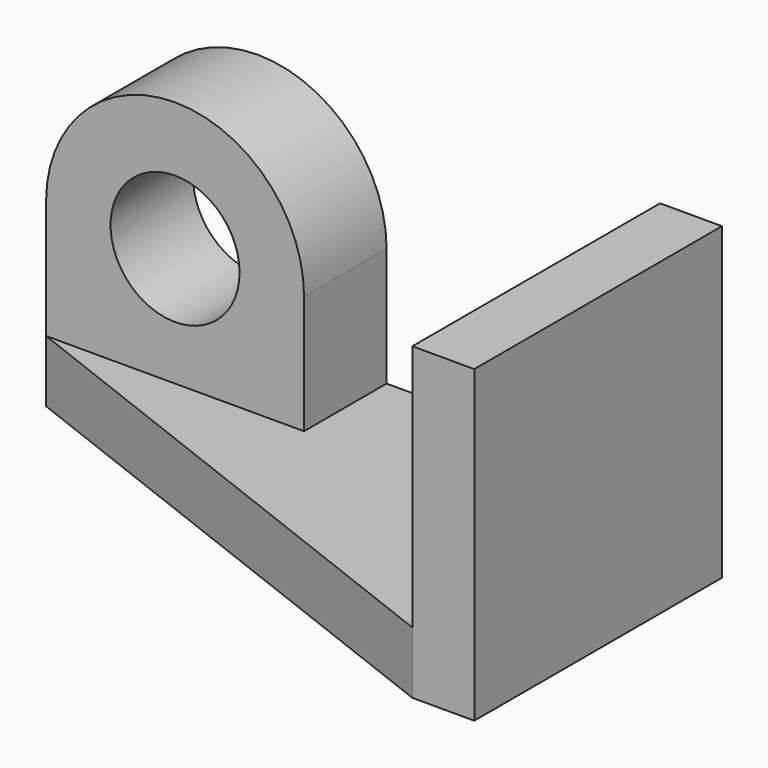
from build123d import *

# Parameters (mm, degrees)
F0_W      = 2921
F0_H      = 1524
F1_DEPTH  = 1524
F2_W      = 2616.2
F2_H      = 1219.2
F3_DEPTH  = 1016
F4_W      = 1346.2
F4_H      = 508
F5_DEPTH  = 1219.2
F7_DEPTH  = 1270
F8_DEPTH  = 1219.2
F9_W      = 1270
F9_H      = 508
F10_DEPTH = 584.2
F12_DEPTH = 508
F13_R     = 317.5
F14_DEPTH = 1270


with BuildPart() as f1:
    # F0 (on Front) → F1 (new body)
    with BuildSketch(Plane.XZ):
        with Locations((-1460.5, 762)):
            Rectangle(F0_W, F0_H)
    extrude(amount=F1_DEPTH)

    # F2 (on face) → F3 (cut)
    with BuildSketch(Plane.XZ.offset(1524)):
        with Locations((-1612.9, 914.4)):
            Rectangle(F2_W, F2_H)
    extrude(amount=-F3_DEPTH, mode=Mode.SUBTRACT)

    # F4 (on face) → F5 (cut)
    with BuildSketch(Plane.XY.offset(1524)):
        with Locations((-977.9, -254)):
            Rectangle(F4_W, F4_H)
    extrude(amount=-F5_DEPTH, mode=Mode.SUBTRACT)

    # F6 (on face) → F7 (cut)
    with BuildSketch(Plane.XY.offset(304.8)):
        Polygon((-304.8, -1524), (-2921, -508), (-2921, -1524), align=None)
    extrude(amount=-F7_DEPTH, mode=Mode.SUBTRACT)

    # F8 (cut): a face of the model
    f8_faces = [f1.faces().sort_by_distance(p)[0] for p in [
        (-2286, -254, 1524),
    ]]
    extrude(f8_faces, amount=-F8_DEPTH, mode=Mode.SUBTRACT)

    # F9 (on face) → F10 (join)
    with BuildSketch(Plane.XY.offset(304.8)):
        with Locations((-2286, -254)):
            Rectangle(F9_W, F9_H)
    extrude(amount=F10_DEPTH)

    # F11 (on face) → F12 (join)
    with BuildSketch(Plane.XZ.offset(508)):
        with BuildLine():
            Line((-2921, 889), (-1651, 889))
            ThreePointArc((-1651, 889), (-2286, 1524), (-2921, 889))
        make_face()
    extrude(amount=-F12_DEPTH)

    # F13 (on face) → F14 (cut)
    with BuildSketch(Plane.XZ.offset(508)):
        with Locations((-2286, 889)):
            Circle(F13_R)
    extrude(amount=-F14_DEPTH, mode=Mode.SUBTRACT)


solid = f1.part
